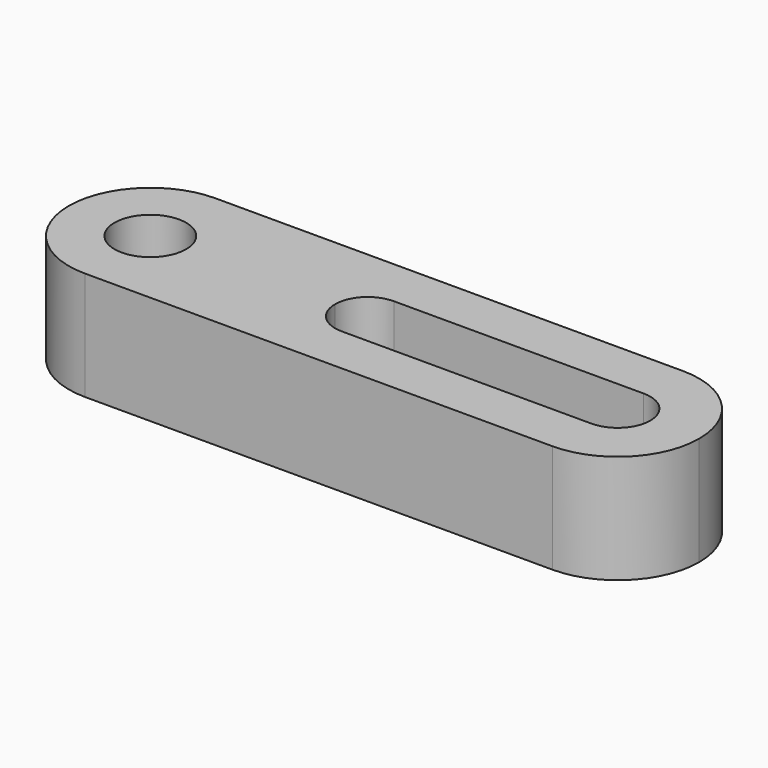
from build123d import *

# Parameters (mm, degrees)
F1_DEPTH = 20
F3_D     = 13.2


with BuildPart() as f1:
    # F0 (on Top) → F1 (new body)
    with BuildSketch(Plane.XY):
        with BuildLine():
            ThreePointArc((-6, 0), (-4.2426406871, 4.2426406871), (0, 6))
            Line((0, 6), (32.2522729151, 6))
            ThreePointArc((32.2522729151, 6), (37.7841616374, 12.549900398), (46, 15))
            Line((46, 15), (-40, 15))
            ThreePointArc((-40, 15), (-29.3933982822, 10.6066017178), (-25, 0))
            Line((-25, 0), (-6, 0))
        make_face()
        with BuildLine():
            Line((32.2522729151, -6), (0, -6))
            ThreePointArc((0, -6), (-4.2426406871, -4.2426406871), (-6, 0))
            Line((-6, 0), (-25, 0))
            ThreePointArc((-25, 0), (-29.3933982822, -10.6066017178), (-40, -15))
            Line((-40, -15), (46, -15))
            ThreePointArc((46, -15), (37.7841616374, -12.549900398), (32.2522729151, -6))
        make_face()
        with BuildLine():
            ThreePointArc((46, 15), (37.7841616374, 12.549900398), (32.2522729151, 6))
            Line((32.2522729151, 6), (46, 6))
            ThreePointArc((46, 6), (50.2426406871, 4.2426406871), (52, 0))
            ThreePointArc((52, 0), (50.2426406871, -4.2426406871), (46, -6))
            Line((46, -6), (32.2522729151, -6))
            ThreePointArc((32.2522729151, -6), (37.7841616374, -12.549900398), (46, -15))
            ThreePointArc((46, -15), (56.6066017178, -10.6066017178), (61, 0))
            ThreePointArc((61, 0), (56.6066017178, 10.6066017178), (46, 15))
        make_face()
        with BuildLine():
            ThreePointArc((-40, -15), (-29.3933982822, -10.6066017178), (-25, 0))
            ThreePointArc((-25, 0), (-29.3933982822, 10.6066017178), (-40, 15))
            ThreePointArc((-40, 15), (-55, 0), (-40, -15))
        make_face()
    extrude(amount=F1_DEPTH)

    # F3 (through all)
    with Locations(Plane.XY.offset(20)):
        with Locations((-40, 0)):
            Hole(F3_D / 2)


solid = f1.part
